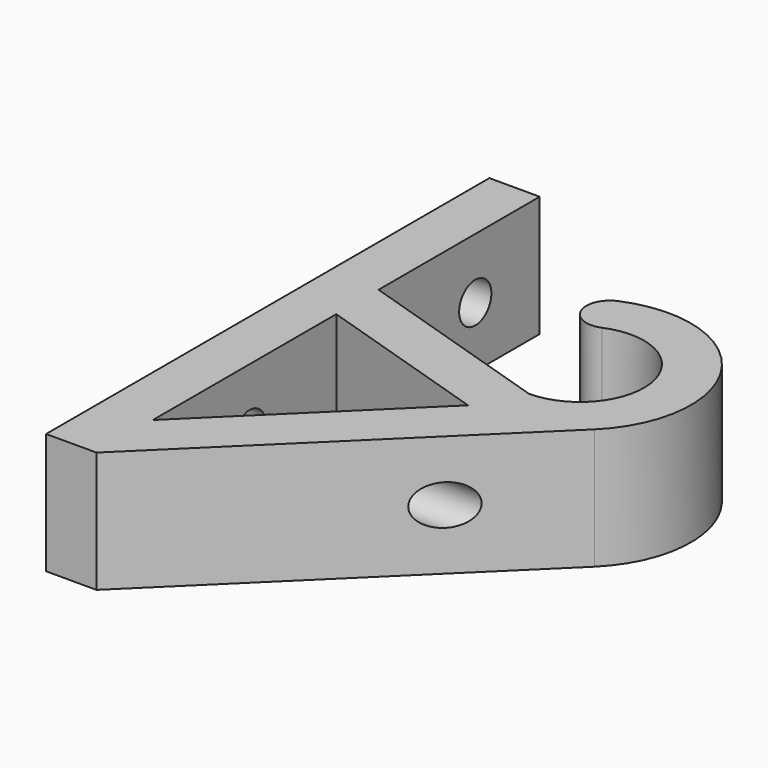
from build123d import *

# Parameters (mm, degrees)
PAD_DEPTH    = 12
SKETCH002_R  = 2
POCKET_DEPTH = 36.001


with BuildPart() as part:
    # Sketch001 → Pad (new body)
    with BuildSketch(Plane.XY):
        with BuildLine():
            ThreePointArc((0, -6.35), (6.22047, 1.276029), (-2.5, 5.837165))
            ThreePointArc((-4.330691, 10.111633), (-5.552574, 7.059055), (-2.5, 5.837165))
            ThreePointArc((7.698987, -7.856564), (9.14059, 6.11961), (-4.330691, 10.111633))
            Line((7.698987, -7.856564), (-20, -35))
            Line((-25, -35), (-20, -35))
            Line((-25, 20), (-25, -35))
            Line((-20, 20), (-25, 20))
            Line((-20, 0), (-20, 20))
            Line((0, -6.35), (-20, 0))
        make_face()
        Polygon((-20, -5.245966), (-20, -27.999484), (-2.462803, -10.814026), align=None, mode=Mode.SUBTRACT)
    extrude(amount=PAD_DEPTH)

    # Sketch002 → Pocket (cut, through all)
    with BuildSketch(Plane(origin=(-25, 0, 0), x_dir=(0, -1, 0), z_dir=(-1, 0, 0))):
        with Locations((-12, 6)):
            Circle(SKETCH002_R)
        with Locations((16, 6)):
            Circle(SKETCH002_R)
    extrude(amount=-POCKET_DEPTH, mode=Mode.SUBTRACT)


solid = part.part
